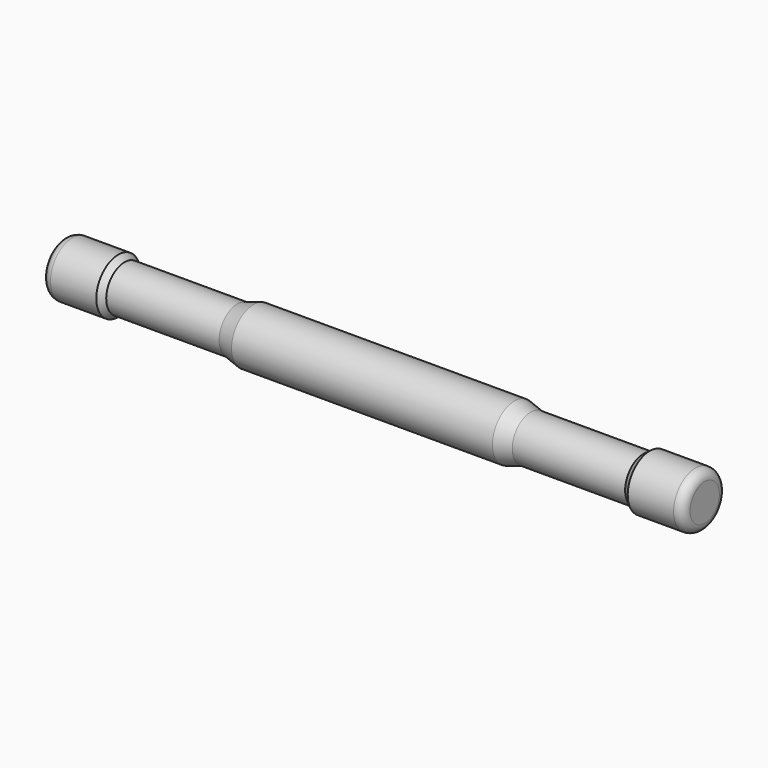
from build123d import *


with BuildPart() as f1:
    # F0 (on Front) → F1 (revolve)
    with BuildSketch(Plane.XZ):
        with BuildLine():
            Line((92.067641, -9.525), (107.95, -9.525))
            ThreePointArc((107.95, -9.525), (110.195064, -8.595064), (111.125, -6.35))
            Line((111.125, -6.35), (111.125, 0))
            Line((111.125, 0), (-111.125, 0))
            Line((-111.125, 0), (-111.125, -6.35))
            ThreePointArc((-111.125, -6.35), (-110.195064, -8.595064), (-107.95, -9.525))
            Line((-107.95, -9.525), (-92.067641, -9.525))
            Line((-92.067641, -9.525), (-89.898975, -7.939003))
            Line((-89.898975, -7.939003), (-50.794696, -7.939003))
            Line((-50.794696, -7.939003), (-45.198496, -9.525))
            Line((-45.198496, -9.525), (45.198496, -9.525))
            Line((45.198496, -9.525), (50.794696, -7.939003))
            Line((50.794696, -7.939003), (89.898975, -7.939003))
            Line((89.898975, -7.939003), (92.067641, -9.525))
        make_face()
    revolve(axis=Axis((0, 0, 0), (1, 0, 0)))


solid = f1.part
